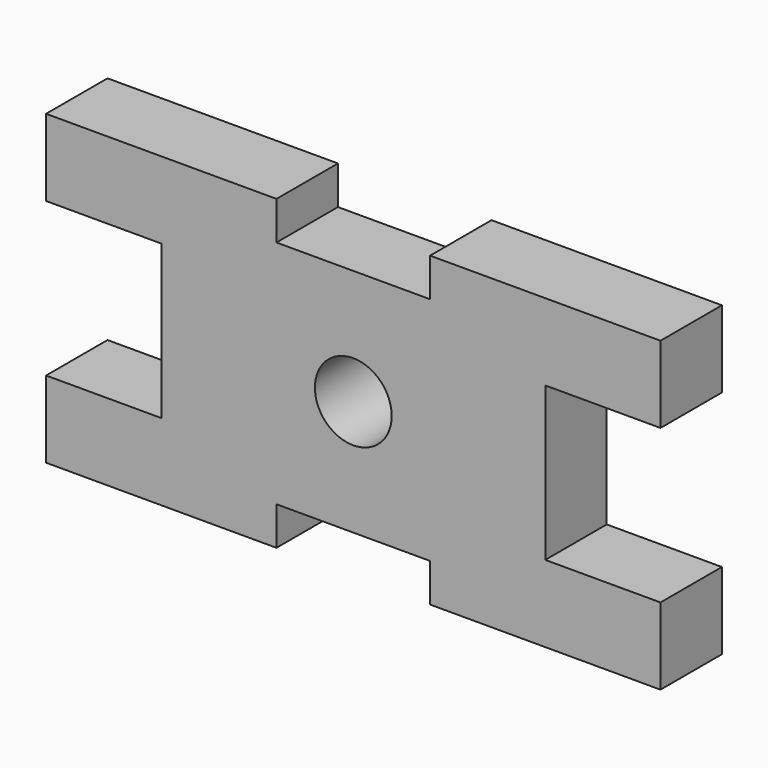
from build123d import *

# Parameters (mm, degrees)
F0_R     = 5
F1_DEPTH = 10


with BuildPart() as f1:
    # F0 (on Front) → F1 (new body)
    with BuildSketch(Plane.XZ):
        Polygon((-10, 20), (-40, 20), (-40, 10), (-25, 10), (-25, -10), (-40, -10), (-40, -20), (-10, -20), (-10, -15), (10, -15), (10, -20), (40, -20), (40, -10), (25, -10), (25, 10), (40, 10), (40, 20), (10, 20), (10, 15), (-10, 15), align=None)
        Circle(F0_R, mode=Mode.SUBTRACT)
    extrude(amount=F1_DEPTH)


solid = f1.part
